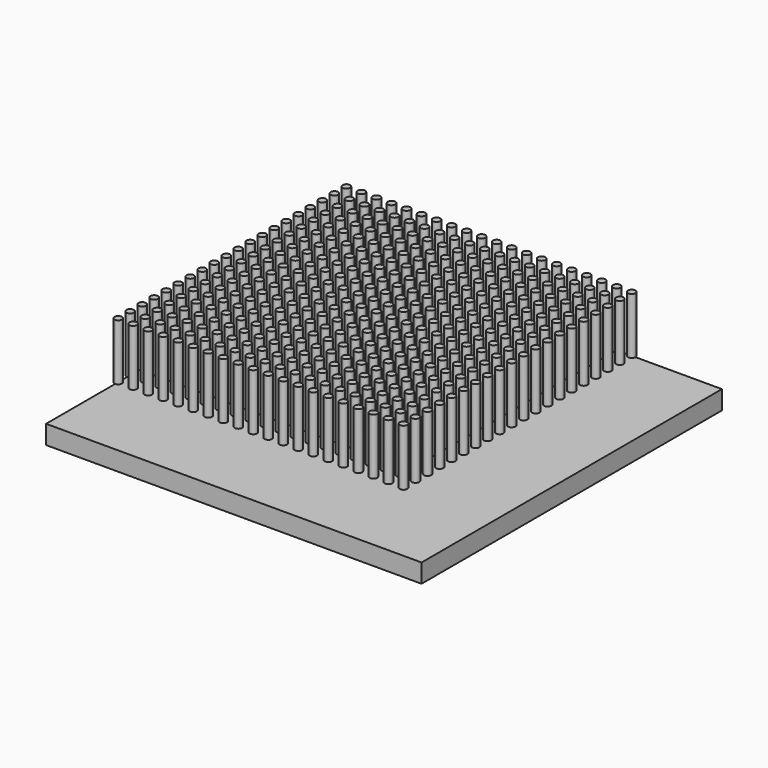
from build123d import *

# Parameters (mm, degrees)
F0_W     = 100
F0_H     = 100
F1_DEPTH = 5
F2_R     = 1
F3_DEPTH = 15


with BuildPart() as f1:
    # F0 (on Top) → F1 (new body)
    with BuildSketch(Plane.XY):
        with Locations((50, 50)):
            Rectangle(F0_W, F0_H)
    extrude(amount=F1_DEPTH)

    # F2 (on face) → F3 (join)
    with BuildSketch(Plane.XY.offset(5)):
        with Locations((0, 100)):
            Circle(F2_R)
        with Locations((0, 96)):
            Circle(F2_R)
        with Locations((0, 92)):
            Circle(F2_R)
        with Locations((0, 88)):
            Circle(F2_R)
        with Locations((0, 84)):
            Circle(F2_R)
        with Locations((0, 80)):
            Circle(F2_R)
        with Locations((0, 76)):
            Circle(F2_R)
        with Locations((0, 72)):
            Circle(F2_R)
        with Locations((0, 68)):
            Circle(F2_R)
        with Locations((0, 64)):
            Circle(F2_R)
        with Locations((0, 60)):
            Circle(F2_R)
        with Locations((0, 56)):
            Circle(F2_R)
        with Locations((0, 52)):
            Circle(F2_R)
        with Locations((0, 48)):
            Circle(F2_R)
        with Locations((0, 44)):
            Circle(F2_R)
        with Locations((0, 40)):
            Circle(F2_R)
        with Locations((0, 36)):
            Circle(F2_R)
        with Locations((0, 32)):
            Circle(F2_R)
        with Locations((0, 28)):
            Circle(F2_R)
        with Locations((0, 24)):
            Circle(F2_R)
        with Locations((4, 100)):
            Circle(F2_R)
        with Locations((4, 96)):
            Circle(F2_R)
        with Locations((4, 92)):
            Circle(F2_R)
        with Locations((4, 88)):
            Circle(F2_R)
        with Locations((4, 84)):
            Circle(F2_R)
        with Locations((4, 80)):
            Circle(F2_R)
        with Locations((4, 76)):
            Circle(F2_R)
        with Locations((4, 72)):
            Circle(F2_R)
        with Locations((4, 68)):
            Circle(F2_R)
        with Locations((4, 64)):
            Circle(F2_R)
        with Locations((4, 60)):
            Circle(F2_R)
        with Locations((4, 56)):
            Circle(F2_R)
        with Locations((4, 52)):
            Circle(F2_R)
        with Locations((4, 48)):
            Circle(F2_R)
        with Locations((4, 44)):
            Circle(F2_R)
        with Locations((4, 40)):
            Circle(F2_R)
        with Locations((4, 36)):
            Circle(F2_R)
        with Locations((4, 32)):
            Circle(F2_R)
        with Locations((4, 28)):
            Circle(F2_R)
        with Locations((4, 24)):
            Circle(F2_R)
        with Locations((8, 100)):
            Circle(F2_R)
        with Locations((8, 96)):
            Circle(F2_R)
        with Locations((8, 92)):
            Circle(F2_R)
        with Locations((8, 88)):
            Circle(F2_R)
        with Locations((8, 84)):
            Circle(F2_R)
        with Locations((8, 80)):
            Circle(F2_R)
        with Locations((8, 76)):
            Circle(F2_R)
        with Locations((8, 72)):
            Circle(F2_R)
        with Locations((8, 68)):
            Circle(F2_R)
        with Locations((8, 64)):
            Circle(F2_R)
        with Locations((8, 60)):
            Circle(F2_R)
        with Locations((8, 56)):
            Circle(F2_R)
        with Locations((8, 52)):
            Circle(F2_R)
        with Locations((8, 48)):
            Circle(F2_R)
        with Locations((8, 44)):
            Circle(F2_R)
        with Locations((8, 40)):
            Circle(F2_R)
        with Locations((8, 36)):
            Circle(F2_R)
        with Locations((8, 32)):
            Circle(F2_R)
        with Locations((8, 28)):
            Circle(F2_R)
        with Locations((8, 24)):
            Circle(F2_R)
        with Locations((12, 100)):
            Circle(F2_R)
        with Locations((12, 96)):
            Circle(F2_R)
        with Locations((12, 92)):
            Circle(F2_R)
        with Locations((12, 88)):
            Circle(F2_R)
        with Locations((12, 84)):
            Circle(F2_R)
        with Locations((12, 80)):
            Circle(F2_R)
        with Locations((12, 76)):
            Circle(F2_R)
        with Locations((12, 72)):
            Circle(F2_R)
        with Locations((12, 68)):
            Circle(F2_R)
        with Locations((12, 64)):
            Circle(F2_R)
        with Locations((12, 60)):
            Circle(F2_R)
        with Locations((12, 56)):
            Circle(F2_R)
        with Locations((12, 52)):
            Circle(F2_R)
        with Locations((12, 48)):
            Circle(F2_R)
        with Locations((12, 44)):
            Circle(F2_R)
        with Locations((12, 40)):
            Circle(F2_R)
        with Locations((12, 36)):
            Circle(F2_R)
        with Locations((12, 32)):
            Circle(F2_R)
        with Locations((12, 28)):
            Circle(F2_R)
        with Locations((12, 24)):
            Circle(F2_R)
        with Locations((16, 100)):
            Circle(F2_R)
        with Locations((16, 96)):
            Circle(F2_R)
        with Locations((16, 92)):
            Circle(F2_R)
        with Locations((16, 88)):
            Circle(F2_R)
        with Locations((16, 84)):
            Circle(F2_R)
        with Locations((16, 80)):
            Circle(F2_R)
        with Locations((16, 76)):
            Circle(F2_R)
        with Locations((16, 72)):
            Circle(F2_R)
        with Locations((16, 68)):
            Circle(F2_R)
        with Locations((16, 64)):
            Circle(F2_R)
        with Locations((16, 60)):
            Circle(F2_R)
        with Locations((16, 56)):
            Circle(F2_R)
        with Locations((16, 52)):
            Circle(F2_R)
        with Locations((16, 48)):
            Circle(F2_R)
        with Locations((16, 44)):
            Circle(F2_R)
        with Locations((16, 40)):
            Circle(F2_R)
        with Locations((16, 36)):
            Circle(F2_R)
        with Locations((16, 32)):
            Circle(F2_R)
        with Locations((16, 28)):
            Circle(F2_R)
        with Locations((16, 24)):
            Circle(F2_R)
        with Locations((20, 100)):
            Circle(F2_R)
        with Locations((20, 96)):
            Circle(F2_R)
        with Locations((20, 92)):
            Circle(F2_R)
        with Locations((20, 88)):
            Circle(F2_R)
        with Locations((20, 84)):
            Circle(F2_R)
        with Locations((20, 80)):
            Circle(F2_R)
        with Locations((20, 76)):
            Circle(F2_R)
        with Locations((20, 72)):
            Circle(F2_R)
        with Locations((20, 68)):
            Circle(F2_R)
        with Locations((20, 64)):
            Circle(F2_R)
        with Locations((20, 60)):
            Circle(F2_R)
        with Locations((20, 56)):
            Circle(F2_R)
        with Locations((20, 52)):
            Circle(F2_R)
        with Locations((20, 48)):
            Circle(F2_R)
        with Locations((20, 44)):
            Circle(F2_R)
        with Locations((20, 40)):
            Circle(F2_R)
        with Locations((20, 36)):
            Circle(F2_R)
        with Locations((20, 32)):
            Circle(F2_R)
        with Locations((20, 28)):
            Circle(F2_R)
        with Locations((20, 24)):
            Circle(F2_R)
        with Locations((24, 100)):
            Circle(F2_R)
        with Locations((24, 96)):
            Circle(F2_R)
        with Locations((24, 92)):
            Circle(F2_R)
        with Locations((24, 88)):
            Circle(F2_R)
        with Locations((24, 84)):
            Circle(F2_R)
        with Locations((24, 80)):
            Circle(F2_R)
        with Locations((24, 76)):
            Circle(F2_R)
        with Locations((24, 72)):
            Circle(F2_R)
        with Locations((24, 68)):
            Circle(F2_R)
        with Locations((24, 64)):
            Circle(F2_R)
        with Locations((24, 60)):
            Circle(F2_R)
        with Locations((24, 56)):
            Circle(F2_R)
        with Locations((24, 52)):
            Circle(F2_R)
        with Locations((24, 48)):
            Circle(F2_R)
        with Locations((24, 44)):
            Circle(F2_R)
        with Locations((24, 40)):
            Circle(F2_R)
        with Locations((24, 36)):
            Circle(F2_R)
        with Locations((24, 32)):
            Circle(F2_R)
        with Locations((24, 28)):
            Circle(F2_R)
        with Locations((24, 24)):
            Circle(F2_R)
        with Locations((28, 100)):
            Circle(F2_R)
        with Locations((28, 96)):
            Circle(F2_R)
        with Locations((28, 92)):
            Circle(F2_R)
        with Locations((28, 88)):
            Circle(F2_R)
        with Locations((28, 84)):
            Circle(F2_R)
        with Locations((28, 80)):
            Circle(F2_R)
        with Locations((28, 76)):
            Circle(F2_R)
        with Locations((28, 72)):
            Circle(F2_R)
        with Locations((28, 68)):
            Circle(F2_R)
        with Locations((28, 64)):
            Circle(F2_R)
        with Locations((28, 60)):
            Circle(F2_R)
        with Locations((28, 56)):
            Circle(F2_R)
        with Locations((28, 52)):
            Circle(F2_R)
        with Locations((28, 48)):
            Circle(F2_R)
        with Locations((28, 44)):
            Circle(F2_R)
        with Locations((28, 40)):
            Circle(F2_R)
        with Locations((28, 36)):
            Circle(F2_R)
        with Locations((28, 32)):
            Circle(F2_R)
        with Locations((28, 28)):
            Circle(F2_R)
        with Locations((28, 24)):
            Circle(F2_R)
        with Locations((32, 100)):
            Circle(F2_R)
        with Locations((32, 96)):
            Circle(F2_R)
        with Locations((32, 92)):
            Circle(F2_R)
        with Locations((32, 88)):
            Circle(F2_R)
        with Locations((32, 84)):
            Circle(F2_R)
        with Locations((32, 80)):
            Circle(F2_R)
        with Locations((32, 76)):
            Circle(F2_R)
        with Locations((32, 72)):
            Circle(F2_R)
        with Locations((32, 68)):
            Circle(F2_R)
        with Locations((32, 64)):
            Circle(F2_R)
        with Locations((32, 60)):
            Circle(F2_R)
        with Locations((32, 56)):
            Circle(F2_R)
        with Locations((32, 52)):
            Circle(F2_R)
        with Locations((32, 48)):
            Circle(F2_R)
        with Locations((32, 44)):
            Circle(F2_R)
        with Locations((32, 40)):
            Circle(F2_R)
        with Locations((32, 36)):
            Circle(F2_R)
        with Locations((32, 32)):
            Circle(F2_R)
        with Locations((32, 28)):
            Circle(F2_R)
        with Locations((32, 24)):
            Circle(F2_R)
        with Locations((36, 100)):
            Circle(F2_R)
        with Locations((36, 96)):
            Circle(F2_R)
        with Locations((36, 92)):
            Circle(F2_R)
        with Locations((36, 88)):
            Circle(F2_R)
        with Locations((36, 84)):
            Circle(F2_R)
        with Locations((36, 80)):
            Circle(F2_R)
        with Locations((36, 76)):
            Circle(F2_R)
        with Locations((36, 72)):
            Circle(F2_R)
        with Locations((36, 68)):
            Circle(F2_R)
        with Locations((36, 64)):
            Circle(F2_R)
        with Locations((36, 60)):
            Circle(F2_R)
        with Locations((36, 56)):
            Circle(F2_R)
        with Locations((36, 52)):
            Circle(F2_R)
        with Locations((36, 48)):
            Circle(F2_R)
        with Locations((36, 44)):
            Circle(F2_R)
        with Locations((36, 40)):
            Circle(F2_R)
        with Locations((36, 36)):
            Circle(F2_R)
        with Locations((36, 32)):
            Circle(F2_R)
        with Locations((36, 28)):
            Circle(F2_R)
        with Locations((36, 24)):
            Circle(F2_R)
        with Locations((40, 100)):
            Circle(F2_R)
        with Locations((40, 96)):
            Circle(F2_R)
        with Locations((40, 92)):
            Circle(F2_R)
        with Locations((40, 88)):
            Circle(F2_R)
        with Locations((40, 84)):
            Circle(F2_R)
        with Locations((40, 80)):
            Circle(F2_R)
        with Locations((40, 76)):
            Circle(F2_R)
        with Locations((40, 72)):
            Circle(F2_R)
        with Locations((40, 68)):
            Circle(F2_R)
        with Locations((40, 64)):
            Circle(F2_R)
        with Locations((40, 60)):
            Circle(F2_R)
        with Locations((40, 56)):
            Circle(F2_R)
        with Locations((40, 52)):
            Circle(F2_R)
        with Locations((40, 48)):
            Circle(F2_R)
        with Locations((40, 44)):
            Circle(F2_R)
        with Locations((40, 40)):
            Circle(F2_R)
        with Locations((40, 36)):
            Circle(F2_R)
        with Locations((40, 32)):
            Circle(F2_R)
        with Locations((40, 28)):
            Circle(F2_R)
        with Locations((40, 24)):
            Circle(F2_R)
        with Locations((44, 100)):
            Circle(F2_R)
        with Locations((44, 96)):
            Circle(F2_R)
        with Locations((44, 92)):
            Circle(F2_R)
        with Locations((44, 88)):
            Circle(F2_R)
        with Locations((44, 84)):
            Circle(F2_R)
        with Locations((44, 80)):
            Circle(F2_R)
        with Locations((44, 76)):
            Circle(F2_R)
        with Locations((44, 72)):
            Circle(F2_R)
        with Locations((44, 68)):
            Circle(F2_R)
        with Locations((44, 64)):
            Circle(F2_R)
        with Locations((44, 60)):
            Circle(F2_R)
        with Locations((44, 56)):
            Circle(F2_R)
        with Locations((44, 52)):
            Circle(F2_R)
        with Locations((44, 48)):
            Circle(F2_R)
        with Locations((44, 44)):
            Circle(F2_R)
        with Locations((44, 40)):
            Circle(F2_R)
        with Locations((44, 36)):
            Circle(F2_R)
        with Locations((44, 32)):
            Circle(F2_R)
        with Locations((44, 28)):
            Circle(F2_R)
        with Locations((44, 24)):
            Circle(F2_R)
        with Locations((48, 100)):
            Circle(F2_R)
        with Locations((48, 96)):
            Circle(F2_R)
        with Locations((48, 92)):
            Circle(F2_R)
        with Locations((48, 88)):
            Circle(F2_R)
        with Locations((48, 84)):
            Circle(F2_R)
        with Locations((48, 80)):
            Circle(F2_R)
        with Locations((48, 76)):
            Circle(F2_R)
        with Locations((48, 72)):
            Circle(F2_R)
        with Locations((48, 68)):
            Circle(F2_R)
        with Locations((48, 64)):
            Circle(F2_R)
        with Locations((48, 60)):
            Circle(F2_R)
        with Locations((48, 56)):
            Circle(F2_R)
        with Locations((48, 52)):
            Circle(F2_R)
        with Locations((48, 48)):
            Circle(F2_R)
        with Locations((48, 44)):
            Circle(F2_R)
        with Locations((48, 40)):
            Circle(F2_R)
        with Locations((48, 36)):
            Circle(F2_R)
        with Locations((48, 32)):
            Circle(F2_R)
        with Locations((48, 28)):
            Circle(F2_R)
        with Locations((48, 24)):
            Circle(F2_R)
        with Locations((52, 100)):
            Circle(F2_R)
        with Locations((52, 96)):
            Circle(F2_R)
        with Locations((52, 92)):
            Circle(F2_R)
        with Locations((52, 88)):
            Circle(F2_R)
        with Locations((52, 84)):
            Circle(F2_R)
        with Locations((52, 80)):
            Circle(F2_R)
        with Locations((52, 76)):
            Circle(F2_R)
        with Locations((52, 72)):
            Circle(F2_R)
        with Locations((52, 68)):
            Circle(F2_R)
        with Locations((52, 64)):
            Circle(F2_R)
        with Locations((52, 60)):
            Circle(F2_R)
        with Locations((52, 56)):
            Circle(F2_R)
        with Locations((52, 52)):
            Circle(F2_R)
        with Locations((52, 48)):
            Circle(F2_R)
        with Locations((52, 44)):
            Circle(F2_R)
        with Locations((52, 40)):
            Circle(F2_R)
        with Locations((52, 36)):
            Circle(F2_R)
        with Locations((52, 32)):
            Circle(F2_R)
        with Locations((52, 28)):
            Circle(F2_R)
        with Locations((52, 24)):
            Circle(F2_R)
        with Locations((56, 100)):
            Circle(F2_R)
        with Locations((56, 96)):
            Circle(F2_R)
        with Locations((56, 92)):
            Circle(F2_R)
        with Locations((56, 88)):
            Circle(F2_R)
        with Locations((56, 84)):
            Circle(F2_R)
        with Locations((56, 80)):
            Circle(F2_R)
        with Locations((56, 76)):
            Circle(F2_R)
        with Locations((56, 72)):
            Circle(F2_R)
        with Locations((56, 68)):
            Circle(F2_R)
        with Locations((56, 64)):
            Circle(F2_R)
        with Locations((56, 60)):
            Circle(F2_R)
        with Locations((56, 56)):
            Circle(F2_R)
        with Locations((56, 52)):
            Circle(F2_R)
        with Locations((56, 48)):
            Circle(F2_R)
        with Locations((56, 44)):
            Circle(F2_R)
        with Locations((56, 40)):
            Circle(F2_R)
        with Locations((56, 36)):
            Circle(F2_R)
        with Locations((56, 32)):
            Circle(F2_R)
        with Locations((56, 28)):
            Circle(F2_R)
        with Locations((56, 24)):
            Circle(F2_R)
        with Locations((60, 100)):
            Circle(F2_R)
        with Locations((60, 96)):
            Circle(F2_R)
        with Locations((60, 92)):
            Circle(F2_R)
        with Locations((60, 88)):
            Circle(F2_R)
        with Locations((60, 84)):
            Circle(F2_R)
        with Locations((60, 80)):
            Circle(F2_R)
        with Locations((60, 76)):
            Circle(F2_R)
        with Locations((60, 72)):
            Circle(F2_R)
        with Locations((60, 68)):
            Circle(F2_R)
        with Locations((60, 64)):
            Circle(F2_R)
        with Locations((60, 60)):
            Circle(F2_R)
        with Locations((60, 56)):
            Circle(F2_R)
        with Locations((60, 52)):
            Circle(F2_R)
        with Locations((60, 48)):
            Circle(F2_R)
        with Locations((60, 44)):
            Circle(F2_R)
        with Locations((60, 40)):
            Circle(F2_R)
        with Locations((60, 36)):
            Circle(F2_R)
        with Locations((60, 32)):
            Circle(F2_R)
        with Locations((60, 28)):
            Circle(F2_R)
        with Locations((60, 24)):
            Circle(F2_R)
        with Locations((64, 100)):
            Circle(F2_R)
        with Locations((64, 96)):
            Circle(F2_R)
        with Locations((64, 92)):
            Circle(F2_R)
        with Locations((64, 88)):
            Circle(F2_R)
        with Locations((64, 84)):
            Circle(F2_R)
        with Locations((64, 80)):
            Circle(F2_R)
        with Locations((64, 76)):
            Circle(F2_R)
        with Locations((64, 72)):
            Circle(F2_R)
        with Locations((64, 68)):
            Circle(F2_R)
        with Locations((64, 64)):
            Circle(F2_R)
        with Locations((64, 60)):
            Circle(F2_R)
        with Locations((64, 56)):
            Circle(F2_R)
        with Locations((64, 52)):
            Circle(F2_R)
        with Locations((64, 48)):
            Circle(F2_R)
        with Locations((64, 44)):
            Circle(F2_R)
        with Locations((64, 40)):
            Circle(F2_R)
        with Locations((64, 36)):
            Circle(F2_R)
        with Locations((64, 32)):
            Circle(F2_R)
        with Locations((64, 28)):
            Circle(F2_R)
        with Locations((64, 24)):
            Circle(F2_R)
        with Locations((68, 100)):
            Circle(F2_R)
        with Locations((68, 96)):
            Circle(F2_R)
        with Locations((68, 92)):
            Circle(F2_R)
        with Locations((68, 88)):
            Circle(F2_R)
        with Locations((68, 84)):
            Circle(F2_R)
        with Locations((68, 80)):
            Circle(F2_R)
        with Locations((68, 76)):
            Circle(F2_R)
        with Locations((68, 72)):
            Circle(F2_R)
        with Locations((68, 68)):
            Circle(F2_R)
        with Locations((68, 64)):
            Circle(F2_R)
        with Locations((68, 60)):
            Circle(F2_R)
        with Locations((68, 56)):
            Circle(F2_R)
        with Locations((68, 52)):
            Circle(F2_R)
        with Locations((68, 48)):
            Circle(F2_R)
        with Locations((68, 44)):
            Circle(F2_R)
        with Locations((68, 40)):
            Circle(F2_R)
        with Locations((68, 36)):
            Circle(F2_R)
        with Locations((68, 32)):
            Circle(F2_R)
        with Locations((68, 28)):
            Circle(F2_R)
        with Locations((68, 24)):
            Circle(F2_R)
        with Locations((72, 100)):
            Circle(F2_R)
        with Locations((72, 96)):
            Circle(F2_R)
        with Locations((72, 92)):
            Circle(F2_R)
        with Locations((72, 88)):
            Circle(F2_R)
        with Locations((72, 84)):
            Circle(F2_R)
        with Locations((72, 80)):
            Circle(F2_R)
        with Locations((72, 76)):
            Circle(F2_R)
        with Locations((72, 72)):
            Circle(F2_R)
        with Locations((72, 68)):
            Circle(F2_R)
        with Locations((72, 64)):
            Circle(F2_R)
        with Locations((72, 60)):
            Circle(F2_R)
        with Locations((72, 56)):
            Circle(F2_R)
        with Locations((72, 52)):
            Circle(F2_R)
        with Locations((72, 48)):
            Circle(F2_R)
        with Locations((72, 44)):
            Circle(F2_R)
        with Locations((72, 40)):
            Circle(F2_R)
        with Locations((72, 36)):
            Circle(F2_R)
        with Locations((72, 32)):
            Circle(F2_R)
        with Locations((72, 28)):
            Circle(F2_R)
        with Locations((72, 24)):
            Circle(F2_R)
        with Locations((76, 100)):
            Circle(F2_R)
        with Locations((76, 96)):
            Circle(F2_R)
        with Locations((76, 92)):
            Circle(F2_R)
        with Locations((76, 88)):
            Circle(F2_R)
        with Locations((76, 84)):
            Circle(F2_R)
        with Locations((76, 80)):
            Circle(F2_R)
        with Locations((76, 76)):
            Circle(F2_R)
        with Locations((76, 72)):
            Circle(F2_R)
        with Locations((76, 68)):
            Circle(F2_R)
        with Locations((76, 64)):
            Circle(F2_R)
        with Locations((76, 60)):
            Circle(F2_R)
        with Locations((76, 56)):
            Circle(F2_R)
        with Locations((76, 52)):
            Circle(F2_R)
        with Locations((76, 48)):
            Circle(F2_R)
        with Locations((76, 44)):
            Circle(F2_R)
        with Locations((76, 40)):
            Circle(F2_R)
        with Locations((76, 36)):
            Circle(F2_R)
        with Locations((76, 32)):
            Circle(F2_R)
        with Locations((76, 28)):
            Circle(F2_R)
        with Locations((76, 24)):
            Circle(F2_R)
    extrude(amount=F3_DEPTH)


solid = f1.part
